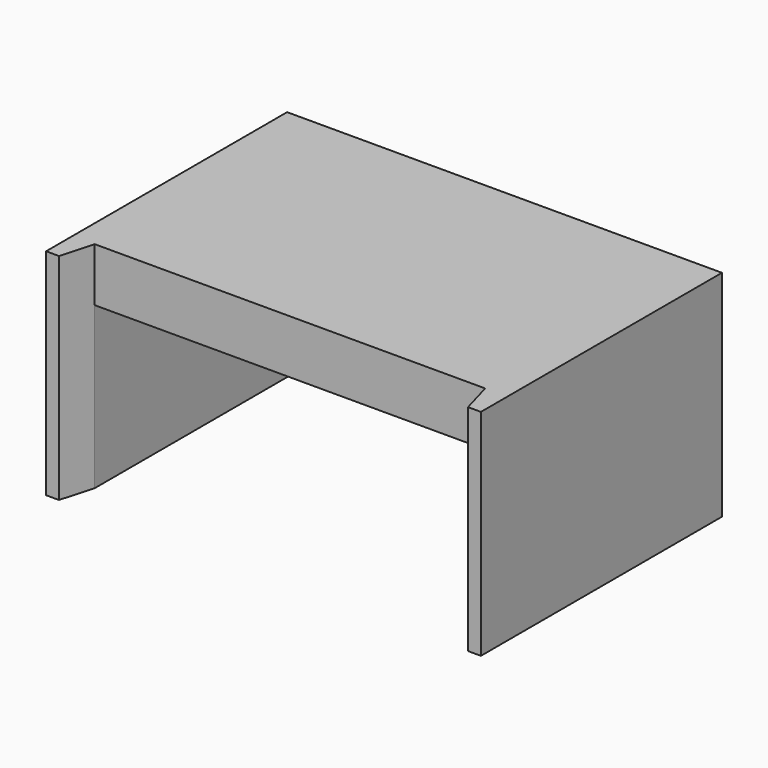
from build123d import *

# Parameters (mm, degrees)
F1_DEPTH = 25.4
F2_W     = 46.1691659327
F2_H     = 29.3826218694
F3_DEPTH = 19.05
F5_DEPTH = 25.4


with BuildPart() as f1:
    # F0 (on Top) → F1 (new body)
    with BuildSketch(Plane.XY):
        Polygon((70.5610662699, 62.708877027), (19.1396083683, 62.708877027), (19.1396083683, 30.9927258641), (22.5176624954, 30.9927258641), (68.1213587523, 30.9927258641), (70.5610662699, 30.9927258641), align=None)
    extrude(amount=F1_DEPTH)

    # F2 (on face) → F3 (cut)
    with BuildSketch(Plane(origin=(0, 0, 0), x_dir=(1, 0, 0), z_dir=(0, 0, -1))):
        with Locations((44.8503373191, -45.6840367988)):
            Rectangle(F2_W, F2_H)
    extrude(amount=-F3_DEPTH, mode=Mode.SUBTRACT)

    # F4 (on face) → F5 (join)
    with BuildSketch(Plane(origin=(0, 0, 0), x_dir=(1, 0, 0), z_dir=(0, 0, -1))):
        Polygon((67.9349202854, -30.9927258641), (70.5610662699, -30.9927258641), (70.5610662699, -27.0810292719), (69.0370662699, -27.0810292719), align=None)
        Polygon((19.1396083683, -27.0810292719), (19.1396083683, -30.9927258641), (21.7657543527, -30.9927258641), (20.6636083683, -27.0810292719), align=None)
    extrude(amount=-F5_DEPTH)


solid = f1.part
